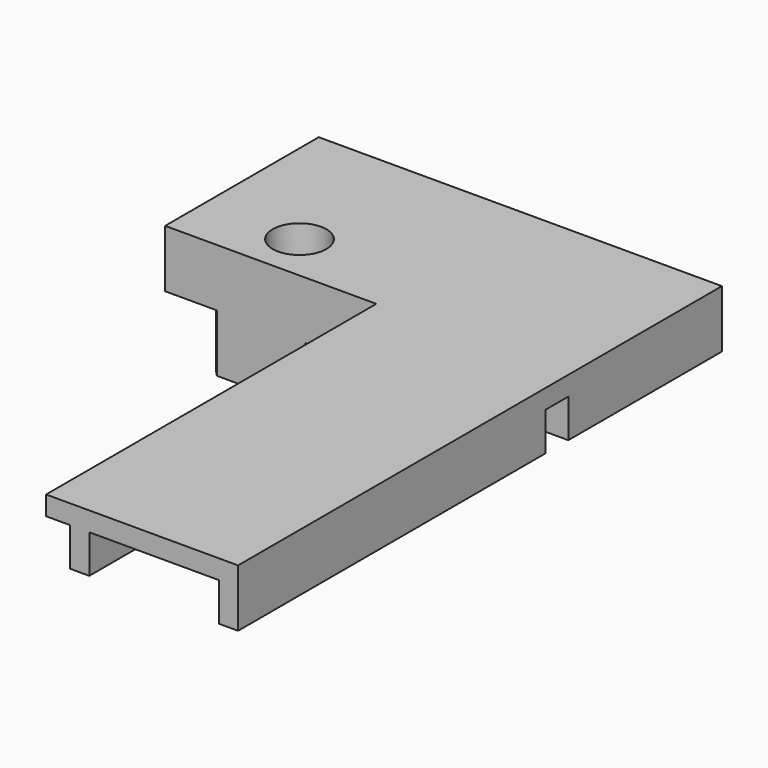
from build123d import *

# Parameters (mm, degrees)
CYLINDER005_R     = 1.4
CYLINDER005_DEPTH = 10
EXTRUDE001_DEPTH  = 2
SKETCH002_R       = 1.4
EXTRUDE002_DEPTH  = 6
EXTRUDE_DEPTH     = 1


with BuildPart() as cylinder005:
    # Cylinder005 → Cylinder005 (new body)
    with BuildSketch(Plane(origin=(-5, 2.5, -5), x_dir=(1, 0, 0), z_dir=(0, 0, 1))):
        Circle(CYLINDER005_R)
    extrude(amount=CYLINDER005_DEPTH)


with BuildPart() as extrude001:
    # Sketch001 → Extrude001 (new body)
    with BuildSketch(Plane.XY.offset(10)):
        Polygon((-21, 10), (0, 10), (0, 9), (-20, 9), (-20, 1), (0, 1), (0, 0), (-21, 0), align=None)
        Polygon((-21, -1.5), (-12.25, -1.5), (-12.25, -21.5), (-13.25, -21.5), (-13.25, -2.5), (-20, -2.5), (-20, -21.5), (-21, -21.5), align=None)
    extrude(amount=-EXTRUDE001_DEPTH)


with BuildPart() as extrude001_1:
    # Extrude001 placement: moved
    add(extrude001.part.moved(Location((0, 0, -8))))


with BuildPart() as extrude002:
    # Sketch002 → Extrude002 (new body)
    with BuildSketch(Plane.XY.offset(10)):
        with BuildLine():
            ThreePointArc((-2.695656, 0), (-5, 5.9), (-7.304344, 0))
            Line((-7.304344, 0), (-2.695656, 0))
        make_face()
        with Locations((-5, 2.5)):
            Circle(SKETCH002_R, mode=Mode.SUBTRACT)
    extrude(amount=-EXTRUDE002_DEPTH)


with BuildPart() as extrude002_1:
    # Extrude002 placement: moved
    add(extrude002.part.moved(Location((0, 0, -7))))


with BuildPart() as body002:
    # Sketch → Extrude (new body)
    with BuildSketch(Plane.XY):
        Polygon((-11, 0), (0, 0), (0, 10), (-21, 10), (-21, -21.5), (-11, -21.5), align=None)
    extrude(amount=EXTRUDE_DEPTH)


with BuildPart() as body002_1:
    # Extrude placement: moved
    add(body002.part.moved(Location((0, 0, 2))))

    # Fusion012: union Extrude001, Extrude002
    add(extrude001_1.part)
    add(extrude002_1.part)

    # Cut001: cut Cylinder005
    add(cylinder005.part, mode=Mode.SUBTRACT)


with BuildPart() as part_mirroring003:
    # Part__Mirroring003: instance of Body002
    add(body002_1.part.mirror(Plane(origin=(0, 0, 0), x_dir=(0, -1, 0), z_dir=(1, 0, 0))))


solid = part_mirroring003.part
